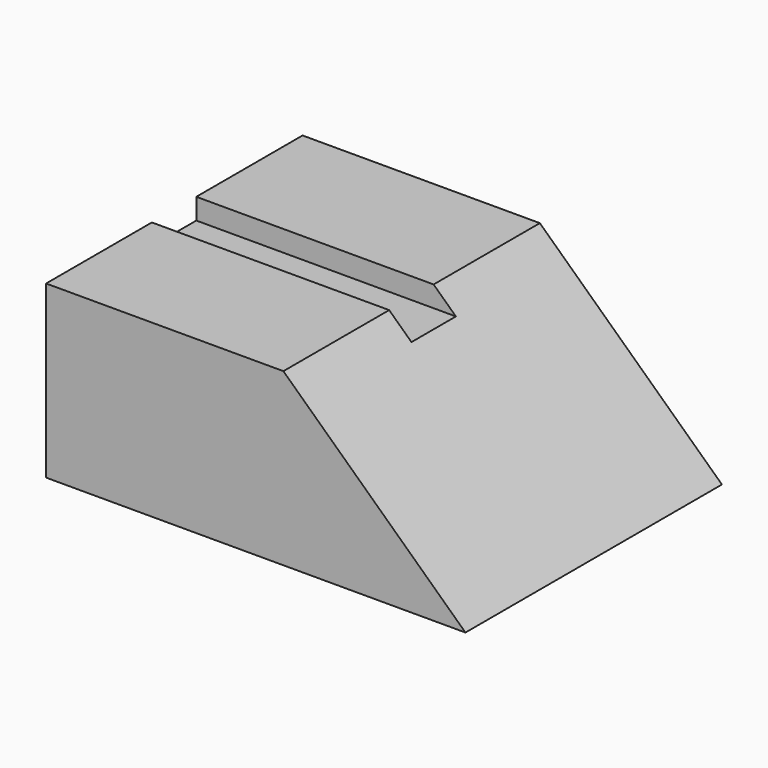
from build123d import *

# Parameters (mm, degrees)
F0_W     = 137.114138
F0_H     = 104.813702
F1_DEPTH = 55.88
F3_DEPTH = 104.814702
F4_W     = 18.162367
F4_H     = 6.841612
F5_DEPTH = 137.115137


with BuildPart() as f1:
    # F0 (on Top) → F1 (new body)
    with BuildSketch(Plane.XY):
        Rectangle(F0_W, F0_H)
    extrude(amount=F1_DEPTH)

    # F2 (on face) → F3 (cut, through all)
    with BuildSketch(Plane.XZ.offset(52.406851)):
        Polygon((68.557069, 0), (68.557069, 55.88), (9.029833, 55.88), align=None)
    extrude(amount=-F3_DEPTH, mode=Mode.SUBTRACT)

    # F4 (on face) → F5 (cut, through all)
    with BuildSketch(Plane(origin=(-68.557069, 0, 0), x_dir=(0, -1, 0), z_dir=(-1, 0, 0))):
        with Locations((0.095591, 52.459194)):
            Rectangle(F4_W, F4_H)
    extrude(amount=-F5_DEPTH, mode=Mode.SUBTRACT)


solid = f1.part
